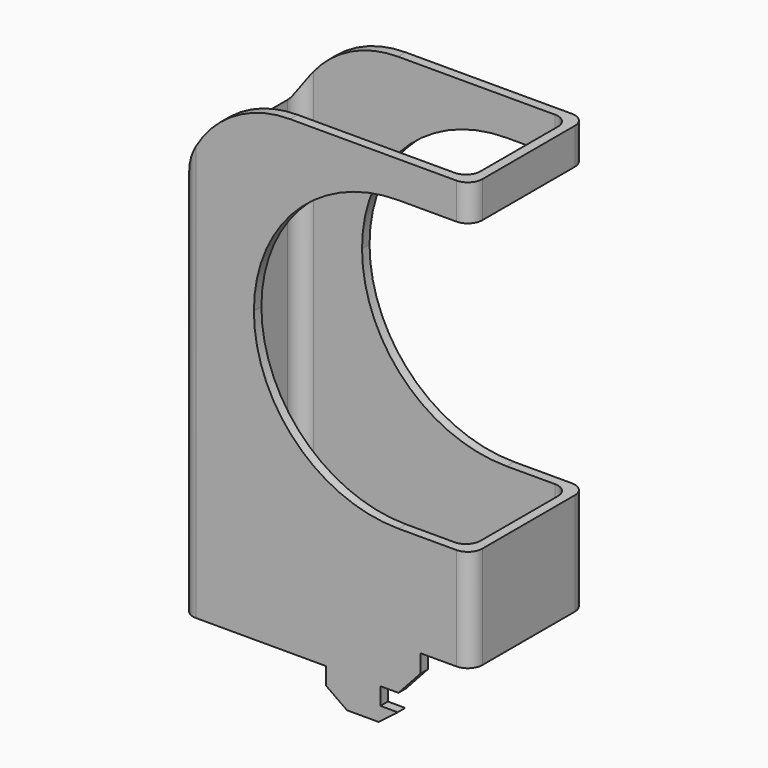
from build123d import *

# Parameters (mm, degrees)
F1_DEPTH  = 82.55
F2_W      = 9.525
F2_H      = 1.651
F3_DEPTH  = 12.7
F4_W      = 1.651
F4_H      = 9.652
F5_DEPTH  = 3.048
F6_W      = 1.651
F6_H      = 9.652
F7_DEPTH  = 3.048
F9_DEPTH  = 6.35
F11_DEPTH = 6.35
F13_DEPTH = 3.175
F15_DEPTH = 3.175
F16_W     = 6.3165789474
F16_H     = 7.3904166929
F16_W_2   = 2.6257108653
F17_DEPTH = 31.75
F18_W     = 2.54
F18_H     = 50.8
F19_DEPTH = 27.94
F21_DEPTH = 25.4
F23_DEPTH = 25.4


with BuildPart() as f1:
    # F0 (on Top) → F1 (new body)
    with BuildSketch(Plane.XY):
        with BuildLine():
            ThreePointArc((0, 2.54), (0.7439487758, 0.7439487758), (2.54, 0))
            Line((2.54, 0), (48.26, 0))
            ThreePointArc((48.26, 0), (50.0560512242, 0.7439487758), (50.8, 2.54))
            Line((50.8, 2.54), (50.8, 22.86))
            ThreePointArc((50.8, 22.86), (50.0560512242, 24.6560512242), (48.26, 25.4))
            Line((48.26, 25.4), (2.54, 25.4))
            ThreePointArc((2.54, 25.4), (0.7439487758, 24.6560512242), (0, 22.86))
            Line((0, 22.86), (0, 2.54))
        make_face()
        with BuildLine():
            ThreePointArc((1.651, 21.209), (2.3949487758, 23.0050512242), (4.191, 23.749))
            Line((4.191, 23.749), (46.609, 23.749))
            ThreePointArc((46.609, 23.749), (48.4050512242, 23.0050512242), (49.149, 21.209))
            Line((49.149, 21.209), (49.149, 4.191))
            ThreePointArc((49.149, 4.191), (48.4050512242, 2.3949487758), (46.609, 1.651))
            Line((46.609, 1.651), (4.191, 1.651))
            ThreePointArc((4.191, 1.651), (2.3949487758, 2.3949487758), (1.651, 4.191))
            Line((1.651, 4.191), (1.651, 21.209))
        make_face(mode=Mode.SUBTRACT)
    extrude(amount=F1_DEPTH)

    # F2 (on face) → F3 (join)
    with BuildSketch(Plane(origin=(0, 0, 0), x_dir=(1, 0, 0), z_dir=(0, 0, -1))):
        with Locations((30.1625, -0.8255)):
            Rectangle(F2_W, F2_H)
        with Locations((30.1625, -24.5745)):
            Rectangle(F2_W, F2_H)
    extrude(amount=F3_DEPTH)

    # F4 (on face) → F5 (join)
    with BuildSketch(Plane.YZ.offset(34.925)):
        with Locations((0.8255, -7.874)):
            Rectangle(F4_W, F4_H)
    extrude(amount=F5_DEPTH)

    # F6 (on face) → F7 (join)
    with BuildSketch(Plane.YZ.offset(34.925)):
        with Locations((24.5745, -7.874)):
            Rectangle(F6_W, F6_H)
    extrude(amount=F7_DEPTH)

    # F8 (on face) → F9 (cut)
    with BuildSketch(Plane.XZ):
        Polygon((37.973, -12.7), (37.973, -3.048), (25.4, -12.7), align=None)
    extrude(amount=-F9_DEPTH, mode=Mode.SUBTRACT)

    # F10 (on face) → F11 (cut)
    with BuildSketch(Plane(origin=(0, 25.4, 0), x_dir=(-1, 0, 0), z_dir=(0, 1, 0))):
        Polygon((-25.4, -12.7), (-37.973, -3.048), (-37.973, -12.7), align=None)
    extrude(amount=-F11_DEPTH, mode=Mode.SUBTRACT)

    # F12 (on face) → F13 (cut)
    with BuildSketch(Plane(origin=(0, 25.4, 0), x_dir=(-1, 0, 0), z_dir=(0, 1, 0))):
        Polygon((-25.4, -6.096), (-34.0025789474, -6.096), (-25.4, -12.7), align=None)
    extrude(amount=-F13_DEPTH, mode=Mode.SUBTRACT)

    # F14 (on face) → F15 (cut)
    with BuildSketch(Plane.XZ):
        Polygon((25.4, -12.7), (34.6021804274, -5.6356998739), (25.4, -5.6356998739), align=None)
    extrude(amount=-F15_DEPTH, mode=Mode.SUBTRACT)

    # F16 (on face) → F17 (cut)
    with BuildSketch(Plane.XZ):
        with Locations((45.1017105263, 3.6952083465)):
            Rectangle(F16_W, F16_H)
        with Locations((49.5728554326, 3.6952083465)):
            Rectangle(F16_W_2, F16_H)
    extrude(amount=-F17_DEPTH, mode=Mode.SUBTRACT)

    # F18 (on face) → F19 (cut)
    with BuildSketch(Plane.XZ):
        with BuildLine():
            Line((38.1, 25.4), (48.26, 25.4))
            Line((48.26, 25.4), (48.26, 76.2))
            Line((48.26, 76.2), (38.1, 76.2))
            ThreePointArc((38.1, 76.2), (20.1394877579, 68.7605122421), (12.7, 50.8))
            ThreePointArc((12.7, 50.8), (20.1394877579, 32.8394877579), (38.1, 25.4))
        make_face()
        with Locations((49.53, 50.8)):
            Rectangle(F18_W, F18_H)
    extrude(amount=-F19_DEPTH, mode=Mode.SUBTRACT)

    # F20 (on face) → F21 (cut)
    with BuildSketch(Plane(origin=(0, 25.4, 0), x_dir=(-1, 0, 0), z_dir=(0, 1, 0))):
        Polygon((-25.4, -3.048), (-29.7012894737, -6.096), (-25.4, -6.096), align=None)
        Polygon((-41.9434210526, 0), (-38.1, 0), (-41.9434210526, 4.2154166929), align=None)
    extrude(amount=-F21_DEPTH, mode=Mode.SUBTRACT)

    # F22 (on face) → F23 (cut)
    with BuildSketch(Plane(origin=(0, 25.4, 0), x_dir=(-1, 0, 0), z_dir=(0, 1, 0))):
        with BuildLine():
            ThreePointArc((-19.05, 82.55), (-5.5796158184, 76.9703841816), (0, 63.5))
            Line((0, 63.5), (0, 82.55))
            Line((0, 82.55), (-19.05, 82.55))
        make_face()
    extrude(amount=-F23_DEPTH, mode=Mode.SUBTRACT)


solid = f1.part
